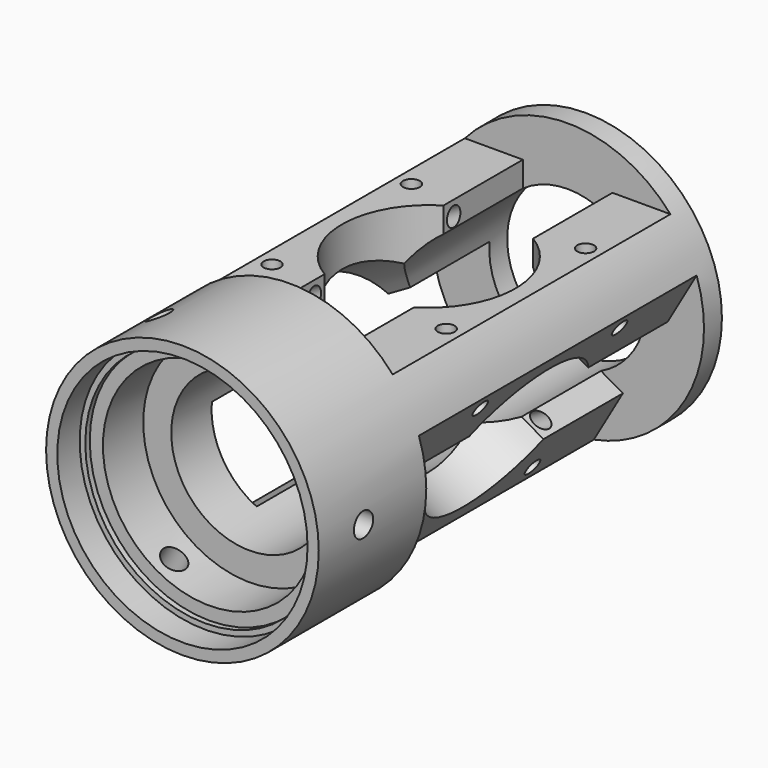
from build123d import *

# Parameters (mm, degrees)
F5_DEPTH       = 31
F6_COUNT       = 3
F6_ANGLE       = 240
F8_R           = 1.5
F9_DEPTH       = 49.351
F10_COUNT      = 3
F10_ANGLE      = 240
F12_R          = 2.15
F13_DEPTH      = 50
F13_DEPTH_BACK = 5
F14_COUNT      = 3
F14_ANGLE      = 240
F16_R          = 15.5
F17_DEPTH      = 20
F18_COUNT      = 3
F18_ANGLE      = 240


with BuildPart() as f1:
    # F0 (on Top) → F1 (revolve)
    with BuildSketch(Plane.XY):
        Polygon((22.35, 5), (22.35, 0), (24.35, 0), (24.35, 90), (14, 90), (14, 15), (19, 15), (19, 6), (21.35, 6), (21.35, 5), align=None)
    revolve(axis=Axis((0, 23.838675, 0), (0, 1, 0)))


with BuildPart() as f5:
    # F4 (on offset) → F5 (new body, symmetric)
    with BuildSketch(Plane(origin=(0, 55, 0), x_dir=(-1, 0, 0), z_dir=(0, 1, 0))):
        Polygon((30, 36), (-30, 36), (-30, 16), (-8, 16), (-8, 0), (8, 0), (8, 16), (30, 16), align=None)
    extrude(amount=F5_DEPTH, both=True)


with BuildPart() as f6_1:
    # F6: instance of F5
    add(f5.part.rotate(Axis((0, 90, 0), (0, -1, 0)), 1 * F6_ANGLE / (F6_COUNT - 1)))


with BuildPart() as f6_2:
    # F6: instance of F5
    add(f5.part.rotate(Axis((0, 90, 0), (0, -1, 0)), 2 * F6_ANGLE / (F6_COUNT - 1)))


with BuildPart() as f1_1:
    add(f1.part)

    # F7: cut F5, F6_2, F6_1
    add(f5.part, mode=Mode.SUBTRACT)
    add(f6_2.part, mode=Mode.SUBTRACT)
    add(f6_1.part, mode=Mode.SUBTRACT)


with BuildPart() as f9:
    # F8 (on offset) → F9 (new body, through all)
    with BuildSketch(Plane.XY.offset(25)):
        with Locations((15.556349, 70.556349)):
            Circle(F8_R)
        with Locations((-15.556349, 39.443651)):
            Circle(F8_R)
        with Locations((-15.556349, 70.556349)):
            Circle(F8_R)
        with Locations((15.556349, 39.443651)):
            Circle(F8_R)
    extrude(amount=-F9_DEPTH)


with BuildPart() as f10_1:
    # F10: instance of F9
    add(f9.part.rotate(Axis((0, 90, 0), (0, -1, 0)), 1 * F10_ANGLE / (F10_COUNT - 1)))


with BuildPart() as f10_2:
    # F10: instance of F9
    add(f9.part.rotate(Axis((0, 90, 0), (0, -1, 0)), 2 * F10_ANGLE / (F10_COUNT - 1)))


with BuildPart() as f1_2:
    add(f1_1.part)

    # F11: cut F9, F10_2, F10_1
    add(f9.part, mode=Mode.SUBTRACT)
    add(f10_2.part, mode=Mode.SUBTRACT)
    add(f10_1.part, mode=Mode.SUBTRACT)


with BuildPart() as f13:
    # F12 (on Right) → F13 (new body, two sides)
    with BuildSketch(Plane.YZ) as f13_sk:
        with Locations((10, 0)):
            Circle(F12_R)
    extrude(amount=F13_DEPTH)
    extrude(f13_sk.sketch, amount=-F13_DEPTH_BACK)


with BuildPart() as f14_1:
    # F14: instance of F13
    add(f13.part.rotate(Axis((0, 90, 0), (0, -1, 0)), 1 * F14_ANGLE / (F14_COUNT - 1)))


with BuildPart() as f14_2:
    # F14: instance of F13
    add(f13.part.rotate(Axis((0, 90, 0), (0, -1, 0)), 2 * F14_ANGLE / (F14_COUNT - 1)))


with BuildPart() as f1_3:
    add(f1_2.part)

    # F15: cut F14_1, F14_2, F13
    add(f14_1.part, mode=Mode.SUBTRACT)
    add(f14_2.part, mode=Mode.SUBTRACT)
    add(f13.part, mode=Mode.SUBTRACT)


with BuildPart() as f17:
    # F16 (on face) → F17 (new body, symmetric)
    with BuildSketch(Plane.XY.offset(16)):
        with Locations((0, 55)):
            Circle(F16_R)
    extrude(amount=F17_DEPTH, both=True)


with BuildPart() as f18_1:
    # F18: instance of F17
    add(f17.part.rotate(Axis((0, 90, 0), (0, -1, 0)), 1 * F18_ANGLE / (F18_COUNT - 1)))


with BuildPart() as f18_2:
    # F18: instance of F17
    add(f17.part.rotate(Axis((0, 90, 0), (0, -1, 0)), 2 * F18_ANGLE / (F18_COUNT - 1)))


with BuildPart() as f1_4:
    add(f1_3.part)

    # F19: cut F18_2, F17, F18_1
    add(f18_2.part, mode=Mode.SUBTRACT)
    add(f17.part, mode=Mode.SUBTRACT)
    add(f18_1.part, mode=Mode.SUBTRACT)


solid = f1_4.part
